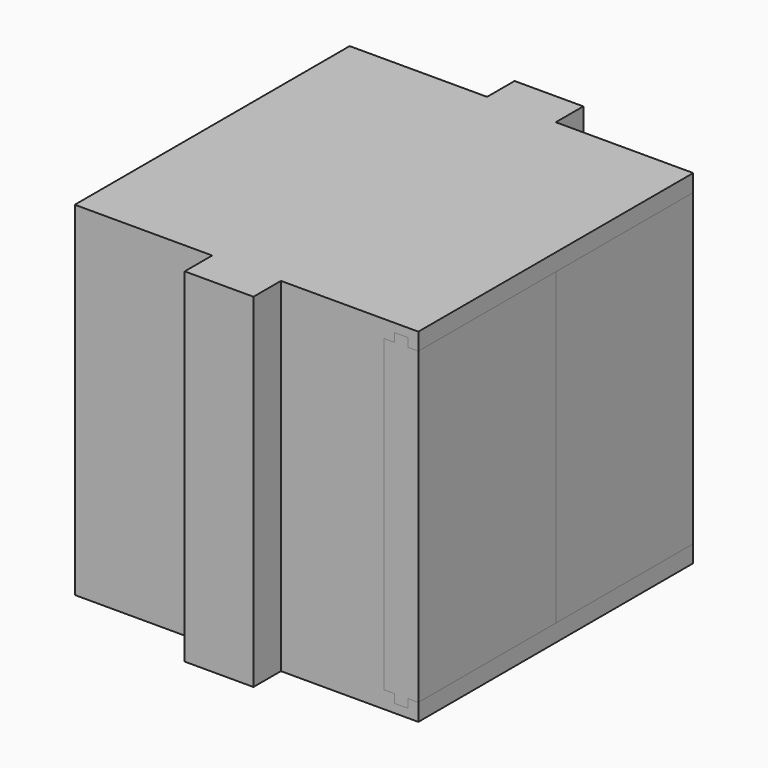
from build123d import *

# Parameters (mm, degrees)
F0_W      = 600
F0_H      = 300
F1_DEPTH  = 3000
F2_W      = 2100
F2_H      = 2100
F3_DEPTH  = 3000
F4_W      = 2100
F4_H      = 2100
F5_DEPTH  = 150
F6_W      = 2100
F6_H      = 2100
F7_DEPTH  = 150
F9_DEPTH  = 3000
F10_W     = 2940
F10_H     = 2700
F11_DEPTH = 2550
F13_DEPTH = 3000
F15_DEPTH = 1500
F17_DEPTH = 1500


with BuildPart() as f1:
    # F0 (on Top) → F1 (new body)
    with BuildSketch(Plane.XY):
        Polygon((-300, 1500), (-1500, 1500), (-1500, -1500), (-300, -1500), (300, -1500), (1200, -1500), (1200, 1500), (300, 1500), align=None)
        with Locations((0, 1650)):
            Rectangle(F0_W, F0_H)
        with Locations((0, -1650)):
            Rectangle(F0_W, F0_H)
    extrude(amount=F1_DEPTH)

    # F2 (on face) → F3 (cut)
    with BuildSketch(Plane.XY.offset(3000)):
        Rectangle(F2_W, F2_H)
    extrude(amount=-F3_DEPTH, mode=Mode.SUBTRACT)

    # F4 (on Top) → F5 (join)
    with BuildSketch(Plane.XY):
        Rectangle(F4_W, F4_H)
    extrude(amount=F5_DEPTH)

    # F6 (on face) → F7 (join)
    with BuildSketch(Plane.XY.offset(3000)):
        Rectangle(F6_W, F6_H)
    extrude(amount=-F7_DEPTH)

    # F8 (on face) → F9 (join)
    with BuildSketch(Plane(origin=(0, 1500, 0), x_dir=(-1, 0, 0), z_dir=(0, 1, 0))):
        Polygon((-1200, 2850), (-1200, 3000), (-1500, 3000), (-1500, 2850), (-1410, 2850), (-1410, 2925), (-1290, 2925), (-1290, 2850), align=None)
    extrude(amount=-F9_DEPTH)

    # F10 (on face) → F11 (cut)
    with BuildSketch(Plane.YZ.offset(1200)):
        with Locations((0, 1355)):
            Rectangle(F10_W, F10_H)
    extrude(amount=-F11_DEPTH, mode=Mode.SUBTRACT)

    # F12 (on face) → F13 (join)
    with BuildSketch(Plane(origin=(0, 1500, 0), x_dir=(-1, 0, 0), z_dir=(0, 1, 0))):
        Polygon((-1500, 0), (-1200, 0), (-1200, 150), (-1290, 150), (-1290, 75), (-1410, 75), (-1410, 150), (-1500, 150), align=None)
    extrude(amount=-F13_DEPTH)


with BuildPart() as f15:
    # F14 (on face) → F15 (new body)
    with BuildSketch(Plane(origin=(0, 1500, 0), x_dir=(-1, 0, 0), z_dir=(0, 1, 0))):
        Polygon((-1410, 2850), (-1500, 2850), (-1500, 150), (-1410, 150), (-1410, 75), (-1290, 75), (-1290, 150), (-1200, 150), (-1200, 2850), (-1290, 2850), (-1290, 2925), (-1410, 2925), align=None)
    extrude(amount=-F15_DEPTH)


with BuildPart() as f17:
    # F16 (on face) → F17 (new body)
    with BuildSketch(Plane.XZ.offset(1500)):
        Polygon((1290, 2850), (1200, 2850), (1200, 150), (1290, 150), (1290, 75), (1410, 75), (1410, 150), (1500, 150), (1500, 2850), (1410, 2850), (1410, 2925), (1290, 2925), align=None)
    extrude(amount=-F17_DEPTH)


solid = Compound([f1.part, f15.part, f17.part])
